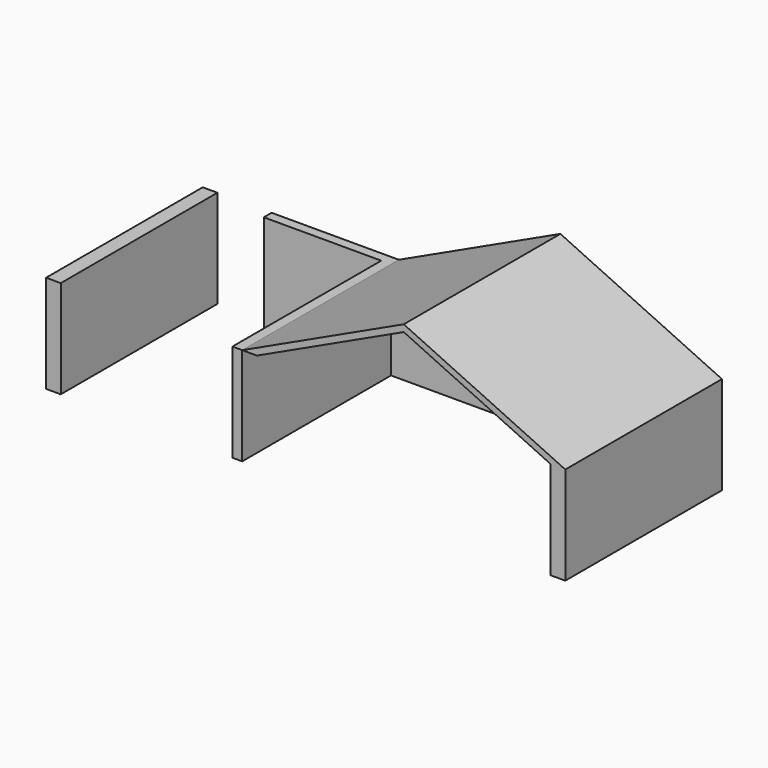
from build123d import *

# Parameters (mm, degrees)
F0_W     = 25.4
F0_H     = 254
F1_DEPTH = 508
F0_W_2   = 38.1
F2_DEPTH = 508
F3_DEPTH = 508
F4_DEPTH = 25.4
F5_DEPTH = 25.4
F0_W_3   = 304.8
F6_DEPTH = 25.4
F7_DEPTH = 508


with BuildPart() as f1:
    # F0 (on Front) → F1 (new body)
    with BuildSketch(Plane.XZ):
        with Locations((-12.7, -9.709484)):
            Rectangle(F0_W, F0_H)
    extrude(amount=F1_DEPTH)



with BuildPart() as f2:
    # F0 (on Front) → F2 (new body)
    with BuildSketch(Plane.XZ):
        with Locations((819.15, -9.709484)):
            Rectangle(F0_W_2, F0_H)
    extrude(amount=F2_DEPTH)


with BuildPart() as f1_1:
    add(f1.part)

    add(f2.part)  # F3 merges F2
    # F0 (on Front) → F3 (join)
    with BuildSketch(Plane.XZ):
        Polygon((419.1, 312.720056), (0, 117.290516), (38.1, 117.290516), (419.1, 294.953734), (800.1, 117.290516), (838.2, 117.290516), align=None)
    extrude(amount=F3_DEPTH)

    # F0 (on Front) → F6 (join)
    with BuildSketch(Plane.XZ):
        with Locations((-177.8, -9.709484)):
            Rectangle(F0_W_3, F0_H)
    extrude(amount=F6_DEPTH)


with BuildPart() as f4:
    # F0 (on Front) → F4 (new body)
    with BuildSketch(Plane.XZ):
        Polygon((38.1, 117.290516), (0, 117.290516), (0, -136.709484), (76.2, -136.709484), (800.1, -136.709484), (800.1, 117.290516), align=None)
    extrude(amount=F4_DEPTH)


with BuildPart() as f5:
    # F0 (on Front) → F5 (new body)
    with BuildSketch(Plane.XZ):
        Polygon((419.1, 294.953734), (38.1, 117.290516), (800.1, 117.290516), align=None)
    extrude(amount=F5_DEPTH)


with BuildPart() as f7:
    # F0 (on Front) → F7 (new body)
    with BuildSketch(Plane.XZ):
        with Locations((-489.876588, -9.709484)):
            Rectangle(F0_W_2, F0_H)
    extrude(amount=F7_DEPTH)


solid = Compound([f1_1.part, f4.part, f5.part, f7.part])
